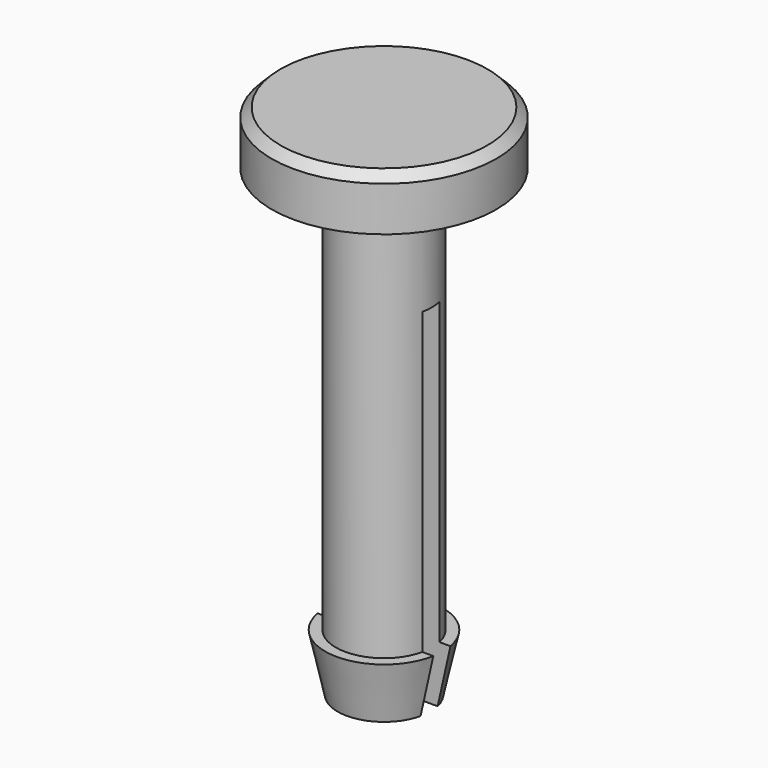
from build123d import *

# Parameters (mm, degrees)
CHAMFER001_SIZE = 0.25
SKETCH018_W     = 3.3
SKETCH018_H     = 0.6
POCKET009_DEPTH = 10


with BuildPart() as part:
    # Sketch017 → Revolution001 (revolve)
    with BuildSketch(Plane.XZ):
        Polygon((-1.35, 1.6), (-1.35, 13), (-3.15, 13), (-3.15, 14.5), (0, 14.5), (0, 0), (-1.3, 0), (-1.65, 1.6), align=None)
    revolve(axis=Axis((0, 0, 0), (0, 0, 1)))

    # Chamfer001
    chamfer001_edges = [part.edges().sort_by_distance(p)[0] for p in [
        (3.15, 0, 14.5),
    ]]
    chamfer(chamfer001_edges, length=CHAMFER001_SIZE)

    # Sketch018 (on Face8 of Chamfer001) → Pocket009 (cut)
    with BuildSketch(Plane(origin=(0, 0, 0), x_dir=(1, 0, 0), z_dir=(0, 0, -1))):
        Rectangle(SKETCH018_W, SKETCH018_H)
    extrude(amount=-POCKET009_DEPTH, mode=Mode.SUBTRACT)


with BuildPart() as part_1:
    # Body003 placement: moved
    add(part.part.moved(Location((15, -37, -1.6))))


solid = part_1.part
